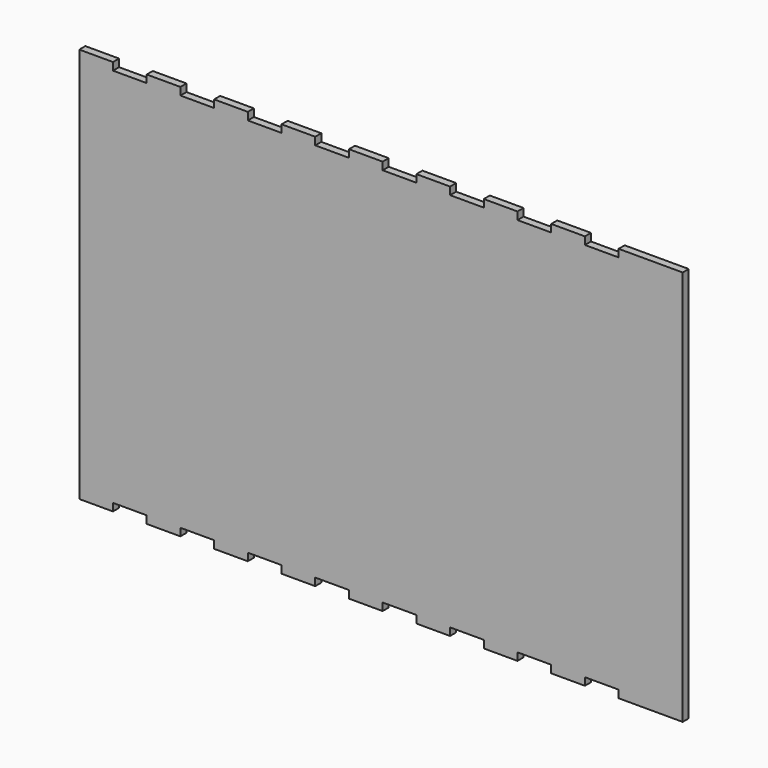
from build123d import *

# Parameters (mm, degrees)
F1_DEPTH = 3


with BuildPart() as f1:
    # F0 (on Front) → F1 (new body)
    with BuildSketch(Plane.XZ):
        Polygon((-74.39188, 79.236314), (-87.72518, 79.236314), (-87.72518, 82.236314), (-101.05848, 82.236314), (-101.05848, 79.235292), (-114.39178, 79.235292), (-114.39178, 82.235292), (-127.72508, 82.235292), (-127.72508, -74.264706), (-114.39178, -74.264706), (-114.39178, -71.264706), (-101.05848, -71.264706), (-101.05848, -74.263689), (-87.72518, -74.263689), (-87.72518, -71.263689), (-74.39188, -71.263689), (-74.39188, -74.263689), (-61.05858, -74.263689), (-61.05858, -71.263689), (-47.72528, -71.263689), (-47.72528, -74.263689), (-34.39198, -74.263689), (-34.39198, -71.263689), (-21.05868, -71.263689), (-21.05868, -74.263689), (-7.72538, -74.263689), (-7.72538, -71.263689), (5.60792, -71.263689), (5.60792, -74.263689), (18.94122, -74.263689), (18.94122, -71.263689), (32.27452, -71.263689), (32.27452, -74.263689), (45.60782, -74.263689), (45.60782, -71.263689), (58.94112, -71.263689), (58.94112, -74.263689), (72.27442, -74.263689), (72.27442, -71.263689), (85.60772, -71.263689), (85.60772, -74.263689), (110.94152, -74.263689), (110.94152, 82.236314), (85.60772, 82.236314), (85.60772, 79.236314), (72.27442, 79.236314), (72.27442, 82.236314), (58.94112, 82.236314), (58.94112, 79.236314), (45.60782, 79.236314), (45.60782, 82.236314), (32.27452, 82.236314), (32.27452, 79.236314), (18.94122, 79.236314), (18.94122, 82.236314), (5.60792, 82.236314), (5.60792, 79.236314), (-7.72538, 79.236314), (-7.72538, 82.236314), (-21.05868, 82.236314), (-21.05868, 79.236314), (-34.39198, 79.236314), (-34.39198, 82.236314), (-47.72528, 82.236314), (-47.72528, 79.236314), (-61.05858, 79.236314), (-61.05858, 82.236314), (-74.39188, 82.236314), align=None)
    extrude(amount=F1_DEPTH)


solid = f1.part
